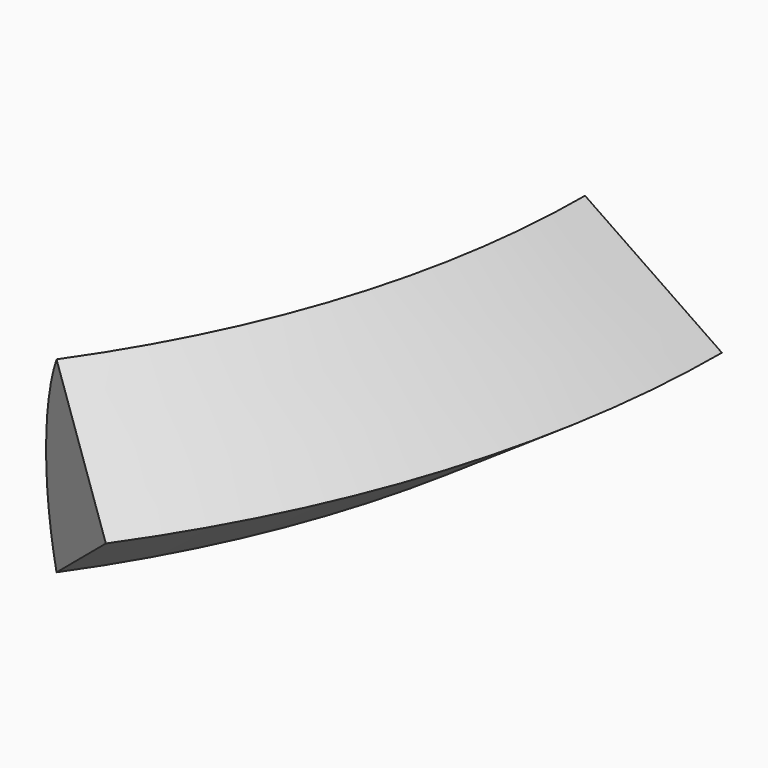
from build123d import *

# Parameters (mm, degrees)
F1_ANGLE = -35


with BuildPart() as f1:
    # F0 (on Front) → F1 (revolve)
    with BuildSketch(Plane.XZ):
        with BuildLine():
            Line((133.002773, 22.911847), (114.100182, 35.859618))
            ThreePointArc((114.100182, 35.859618), (110.090926, 22.911847), (114.100182, 9.964076))
            Line((114.100182, 9.964076), (133.002773, 22.911847))
        make_face()
    revolve(axis=Axis((0, 0, 20.722013), (0, 0, 1)), revolution_arc=F1_ANGLE)


solid = f1.part
